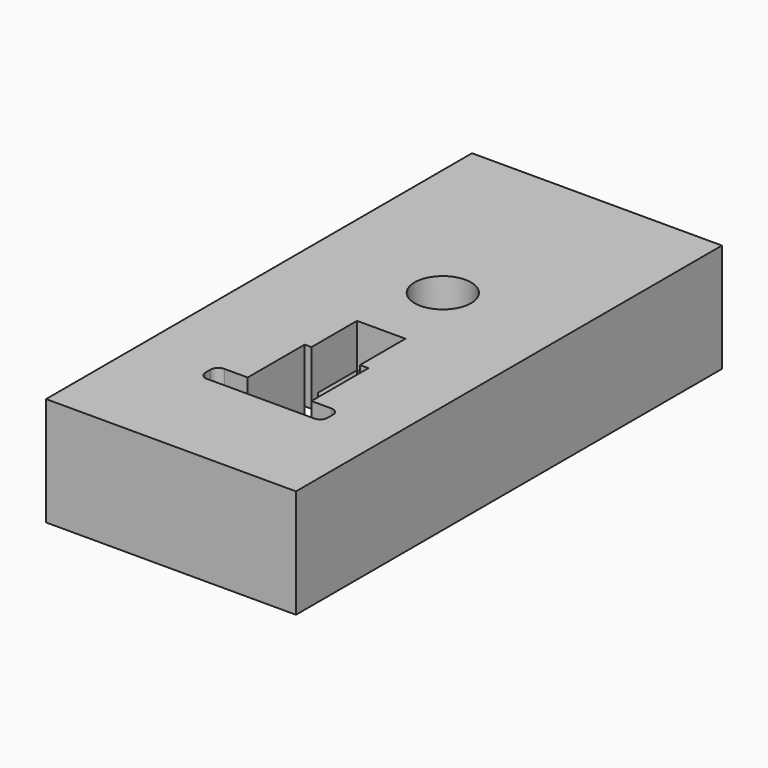
from build123d import *

# Parameters (mm, degrees)
F0_W      = 58.42
F0_H      = 124.46
F1_DEPTH  = 25.4
F3_DEPTH  = 12.7
F2_W      = 14.9100571871
F2_H      = 16.6536653414
F4_DEPTH  = 25.401
F5_DEPTH  = 25.401
F6_R      = 1.778
F8_DEPTH  = 12.7
F9_R      = 6.600990786
F10_DEPTH = 12.701
F12_W     = 24.9527078122
F12_H     = 45.2845413238
F13_DEPTH = 2.54
F14_W     = 11.3247931004
F14_H     = 17.1568840742
F15_DEPTH = 12.701


with BuildPart() as f1:
    # F0 (on Top) → F1 (new body)
    with BuildSketch(Plane.XY):
        with Locations((-18.5432793882, 2.6247613132)):
            Rectangle(F0_W, F0_H)
    extrude(amount=F1_DEPTH)

    # F2 (on Top) → F3 (cut)
    with BuildSketch(Plane.XY):
        Polygon((-2.9867999256, 36.6561636329), (-31.5876603127, 36.6561636329), (-31.5876603127, -13.3048305288), (-24.3469346315, -13.3048305288), (-9.4368774444, -13.3048305288), (-2.9867999256, -13.3048305288), align=None)
    extrude(amount=F3_DEPTH, mode=Mode.SUBTRACT)

    # F2 (on Top) → F4 (cut, through all)
    with BuildSketch(Plane.XY):
        with Locations((-16.8919060379, -21.6316631995)):
            Rectangle(F2_W, F2_H)
    extrude(amount=F4_DEPTH, mode=Mode.SUBTRACT)

    # F2 (on Top) → F5 (cut, through all)
    with BuildSketch(Plane.XY):
        Polygon((-9.4368774444, -29.9584958702), (-24.3469346315, -29.9584958702), (-31.5876603127, -29.9584958702), (-31.5876603127, -35.0270010531), (-2.9867999256, -35.0270010531), (-2.9867999256, -29.9584958702), align=None)
    extrude(amount=F5_DEPTH, mode=Mode.SUBTRACT)

    # F6
    f6_edges = [f1.edges().sort_by_distance(p)[0] for p in [
        (-2.9868, -35.027001, 12.7),
        (-2.9868, -13.304831, 6.35),
        (-2.9868, -29.958496, 12.7),
        (-2.9868, 36.656164, 6.35),
        (-31.58766, 36.656164, 6.35),
        (-31.58766, -13.304831, 6.35),
        (-31.58766, -29.958496, 12.7),
        (-31.58766, -35.027001, 12.7),
    ]]
    fillet(f6_edges, radius=F6_R)

    # F7 (on face) → F8 (cut)
    with BuildSketch(Plane(origin=(0, 0, 0), x_dir=(1, 0, 0), z_dir=(0, 0, -1))):
        with BuildLine():
            Line((-31.5876603127, -10.9698253981), (-31.5876603127, 9.0240317161))
            ThreePointArc((-31.5876603127, 9.0240317161), (-42.5635968021, -0.972896841), (-31.5876603127, -10.9698253981))
        make_face()
        with BuildLine():
            Line((-2.9867999256, 9.5505814534), (-2.9867999256, -11.675666552))
            ThreePointArc((-2.9867999256, -11.675666552), (7.6263240771, -1.0625425493), (-2.9867999256, 9.5505814534))
        make_face()
    extrude(amount=-F8_DEPTH, mode=Mode.SUBTRACT)

    # F9 (on face) → F10 (cut, through all)
    with BuildSketch(Plane(origin=(0, 0, 12.7), x_dir=(1, 0, 0), z_dir=(0, 0, -1))):
        with Locations((-17.4470897764, -18.4470508248)):
            Circle(F9_R)
    extrude(amount=-F10_DEPTH, mode=Mode.SUBTRACT)

    # F12 (on face) → F13 (cut)
    with BuildSketch(Plane(origin=(0, 0, 12.7), x_dir=(1, 0, 0), z_dir=(0, 0, -1))):
        with Locations((-17.5654711202, -11.2502751872)):
            Rectangle(F12_W, F12_H)
    extrude(amount=-F13_DEPTH, mode=Mode.SUBTRACT)

    # F14 (on face) → F15 (cut, through all)
    with BuildSketch(Plane(origin=(0, 0, 12.7), x_dir=(1, 0, 0), z_dir=(0, 0, -1))):
        with Locations((-17.0887093991, 8.5784420371)):
            Rectangle(F14_W, F14_H)
    extrude(amount=-F15_DEPTH, mode=Mode.SUBTRACT)


solid = f1.part
